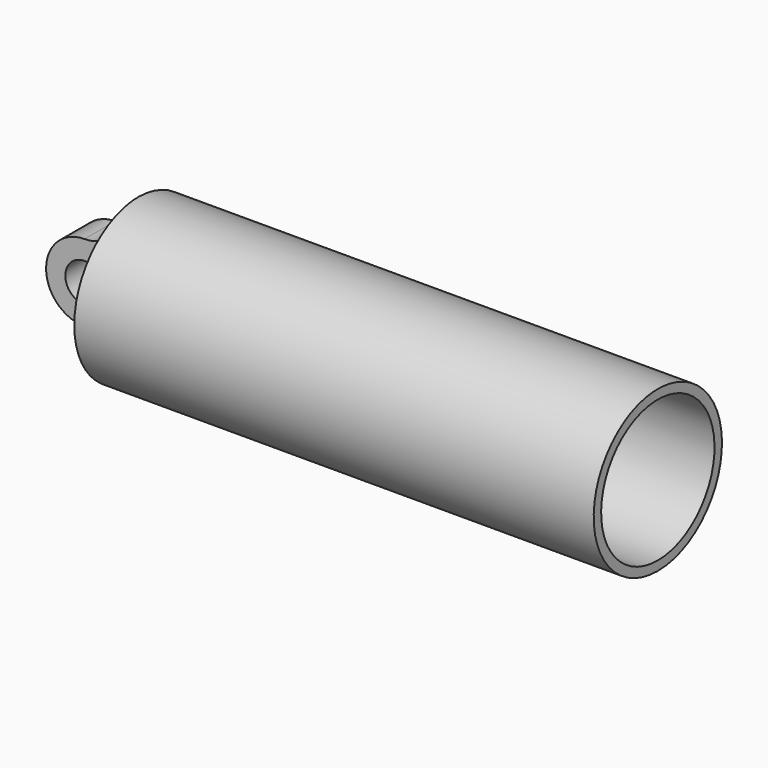
from build123d import *

# Parameters (mm, degrees)
CYLINDER071_R           = 6
CYLINDER071_DEPTH       = 10
CYLINDER071_ROLL_ANGLE  = 90
CYLINDER072_R           = 6
CYLINDER072_DEPTH       = 10
CYLINDER072_ROLL_ANGLE  = 90
BOX003_W                = 6
BOX003_H                = 10
BOX003_DEPTH            = 38
BOX002_W                = 14
BOX002_H                = 10
BOX002_DEPTH            = 38
CYLINDER070_R           = 6
CYLINDER070_DEPTH       = 10
CYLINDER070_ROLL_ANGLE  = 90
CYLINDER006_R           = 11.05
CYLINDER006_DEPTH       = 75.8
CYLINDER006_PITCH_ANGLE = 90
CYLINDER018_R           = 3
CYLINDER018_DEPTH       = 30
CYLINDER018_ROLL_ANGLE  = 90
BOX001_W                = 14
BOX001_H                = 15
BOX001_DEPTH            = 30
BOX_W                   = 14
BOX_H                   = 15
BOX_DEPTH               = 30
CYLINDER005_R           = 12.5
CYLINDER005_DEPTH       = 95
CYLINDER005_PITCH_ANGLE = 90


with BuildPart() as cylinder076:
    # Cylinder071 → Cylinder071 (new body)
    with BuildSketch(Plane.XY):
        Circle(CYLINDER071_R)
    extrude(amount=CYLINDER071_DEPTH)


with BuildPart() as cylinder076_1:
    # Cylinder071 roll: moved
    add(cylinder076.part.rotate(Axis((0, 0, 0), (1, 0, 0)), CYLINDER071_ROLL_ANGLE))


with BuildPart() as cylinder076_2:
    # Cylinder071 placement: moved
    add(cylinder076_1.part.moved(Location((-9, 5, -12))))


with BuildPart() as cylinder077:
    # Cylinder072 → Cylinder072 (new body)
    with BuildSketch(Plane.XY):
        Circle(CYLINDER072_R)
    extrude(amount=CYLINDER072_DEPTH)


with BuildPart() as cylinder077_1:
    # Cylinder072 roll: moved
    add(cylinder077.part.rotate(Axis((0, 0, 0), (1, 0, 0)), CYLINDER072_ROLL_ANGLE))


with BuildPart() as cylinder077_2:
    # Cylinder072 placement: moved
    add(cylinder077_1.part.moved(Location((-9, 5, 0))))


with BuildPart() as cube003:
    # Box003 → Box003 (new body)
    with BuildSketch(Plane(origin=(-9, -5, -19), x_dir=(1, 0, 0), z_dir=(0, 0, 1))):
        with Locations((3, 5)):
            Rectangle(BOX003_W, BOX003_H)
    extrude(amount=BOX003_DEPTH)


with BuildPart() as cut065:
    # Box002 → Box002 (new body)
    with BuildSketch(Plane(origin=(-17, -5, -19), x_dir=(1, 0, 0), z_dir=(0, 0, 1))):
        with Locations((7, 5)):
            Rectangle(BOX002_W, BOX002_H)
    extrude(amount=BOX002_DEPTH)

    # Cut064: cut Cube003
    add(cube003.part, mode=Mode.SUBTRACT)

    # Cut065: cut Cylinder077
    add(cylinder077_2.part, mode=Mode.SUBTRACT)


with BuildPart() as fusion015:
    # Cylinder070 → Cylinder070 (new body)
    with BuildSketch(Plane.XY):
        Circle(CYLINDER070_R)
    extrude(amount=CYLINDER070_DEPTH)


with BuildPart() as fusion015_1:
    # Cylinder070 roll: moved
    add(fusion015.part.rotate(Axis((0, 0, 0), (1, 0, 0)), CYLINDER070_ROLL_ANGLE))


with BuildPart() as fusion015_2:
    # Cylinder070 placement: moved
    add(fusion015_1.part.moved(Location((-9, 5, 12))))

    # Fusion015: union Cylinder076, Cut065
    add(cylinder076_2.part)
    add(cut065.part)


with BuildPart() as cylinder004:
    # Cylinder006 → Cylinder006 (new body)
    with BuildSketch(Plane.XY):
        Circle(CYLINDER006_R)
    extrude(amount=CYLINDER006_DEPTH)


with BuildPart() as cylinder004_1:
    # Cylinder006 pitch: moved
    add(cylinder004.part.rotate(Axis((0, 0, 0), (0, 1, 0)), CYLINDER006_PITCH_ANGLE))


with BuildPart() as cylinder004_2:
    # Cylinder006 placement: moved
    add(cylinder004_1.part.moved(Location((2.2, 0, 0))))


with BuildPart() as cylinder016:
    # Cylinder018 → Cylinder018 (new body)
    with BuildSketch(Plane.XY):
        Circle(CYLINDER018_R)
    extrude(amount=CYLINDER018_DEPTH)


with BuildPart() as cylinder016_1:
    # Cylinder018 roll: moved
    add(cylinder016.part.rotate(Axis((0, 0, 0), (1, 0, 0)), CYLINDER018_ROLL_ANGLE))


with BuildPart() as cylinder016_2:
    # Cylinder018 placement: moved
    add(cylinder016_1.part.moved(Location((-9, 15, 0))))


with BuildPart() as cube001:
    # Box001 → Box001 (new body)
    with BuildSketch(Plane(origin=(-17, -18, -15), x_dir=(1, 0, 0), z_dir=(0, 0, 1))):
        with Locations((7, 7.5)):
            Rectangle(BOX001_W, BOX001_H)
    extrude(amount=BOX001_DEPTH)


with BuildPart() as cube:
    # Box → Box (new body)
    with BuildSketch(Plane(origin=(-17, 3, -15), x_dir=(1, 0, 0), z_dir=(0, 0, 1))):
        with Locations((7, 7.5)):
            Rectangle(BOX_W, BOX_H)
    extrude(amount=BOX_DEPTH)


with BuildPart() as batterycap2:
    # Cylinder005 → Cylinder005 (new body)
    with BuildSketch(Plane.XY):
        Circle(CYLINDER005_R)
    extrude(amount=CYLINDER005_DEPTH)


with BuildPart() as batterycap2_1:
    # Cylinder005 pitch: moved
    add(batterycap2.part.rotate(Axis((0, 0, 0), (0, 1, 0)), CYLINDER005_PITCH_ANGLE))


with BuildPart() as batterycap2_2:
    # Cylinder005 placement: moved
    add(batterycap2_1.part.moved(Location((-17, 0, 0))))

    # Cut010: cut Cube
    add(cube.part, mode=Mode.SUBTRACT)

    # Cut011: cut Cube001
    add(cube001.part, mode=Mode.SUBTRACT)

    # Cut012: cut Cylinder016
    add(cylinder016_2.part, mode=Mode.SUBTRACT)

    # Cut013: cut Cylinder004
    add(cylinder004_2.part, mode=Mode.SUBTRACT)

    # Cut066: cut Fusion015
    add(fusion015_2.part, mode=Mode.SUBTRACT)


solid = batterycap2_2.part
